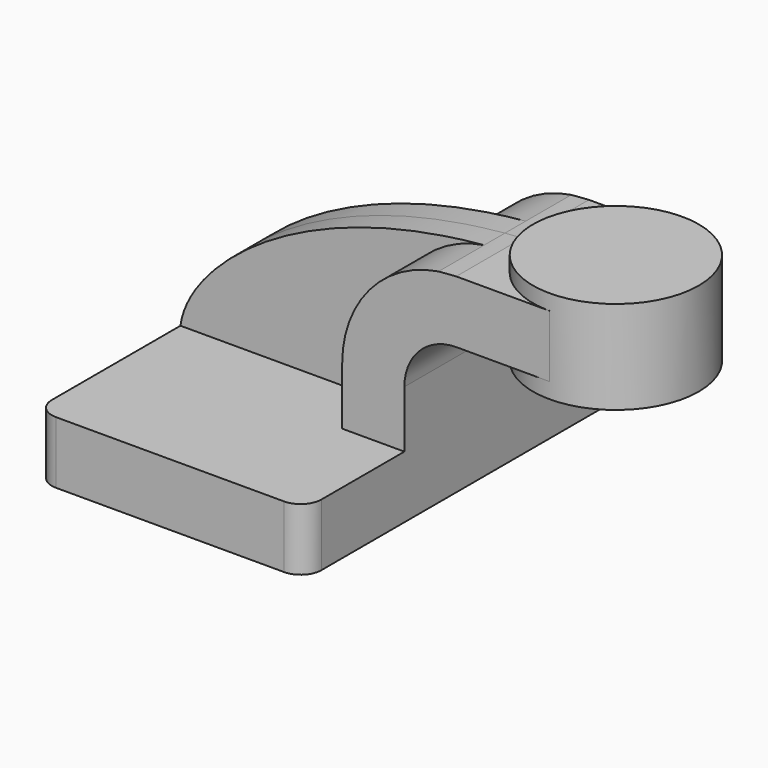
from build123d import *

# Parameters (mm, degrees)
F1_DEPTH = 63.5
F0_W     = 25.4
F0_H     = 19.05
F2_DEPTH = 25.4
F3_DEPTH = 7.9375
F5_R     = 6.35


with BuildPart() as f1:
    # F0 (on Front) → F1 (new body, symmetric)
    with BuildSketch(Plane.XZ):
        Polygon((41.275, -9.525), (41.275, 9.525), (22.225, 9.525), (-41.275, 9.525), (-41.275, -9.525), align=None)
    extrude(amount=F1_DEPTH, both=True)

    # F0 (on Front) → F2 (join, symmetric)
    with BuildSketch(Plane.XZ):
        with BuildLine():
            Line((22.225, 9.525), (41.275, 9.525))
            Line((41.275, 9.525), (41.275, 27.0002))
            ThreePointArc((41.275, 27.0002), (45.9246798487, 38.2255201513), (57.15, 42.8752))
            Line((57.15, 42.8752), (60.325, 42.8752))
            Line((60.325, 42.8752), (60.325, 61.9252))
            Line((60.325, 61.9252), (57.15, 61.9252))
            add(Edge.make_bspline(
                [(51.7432814428, 61.5041565767), (53.5210330671, 61.6663637287), (55.3232994802, 61.8070317712), (57.15, 61.9252)],
                knots=[108.2296061322, 108.2296061322, 108.2296061322, 108.2296061322, 111.5045361635, 111.5045361635, 111.5045361635, 111.5045361635], degree=3))
            ThreePointArc((51.7432814428, 61.5041565767), (30.6114876961, 49.704010026), (22.225, 27.0002))
            Line((22.225, 27.0002), (22.225, 9.525))
        make_face()
        with Locations((73.025, 52.4002)):
            Rectangle(F0_W, F0_H)
    extrude(amount=F2_DEPTH, both=True)

    # F0 (on Front) → F3 (join, symmetric)
    with BuildSketch(Plane.XZ):
        with BuildLine():
            Line((-41.275, 9.525), (22.225, 9.525))
            Line((22.225, 9.525), (22.225, 27.0002))
            ThreePointArc((22.225, 27.0002), (30.6114876961, 49.704010026), (51.7432814428, 61.5041565767))
            add(Edge.make_bspline(
                [(-41.275, 9.525), (-38.9844993253, 27.2586870985), (-7.0077014052, 56.1435485602), (51.7432814428, 61.5041565767)],
                knots=[0, 0, 0, 0, 108.2296061322, 108.2296061322, 108.2296061322, 108.2296061322], degree=3))
        make_face()
    extrude(amount=F3_DEPTH, both=True)

    # F5
    f5_edges = [f1.edges().sort_by_distance(p)[0] for p in [
        (41.275, -63.5, 0),
        (-41.275, -63.5, 0),
        (41.275, 63.5, 0),
        (-41.275, 63.5, 0),
    ]]
    fillet(f5_edges, radius=F5_R)


with BuildPart() as f4:
    # F0 (on Front) → F4 (revolve)
    with BuildSketch(Plane.XZ):
        Polygon((85.725, 61.9252), (85.725, 42.8752), (85.725, 38.1), (111.125, 38.1), (111.125, 66.675), (85.725, 66.675), align=None)
    revolve(axis=Axis((85.725, 0, 52.3875), (0, 0, -1)))


solid = Compound([f1.part, f4.part])
